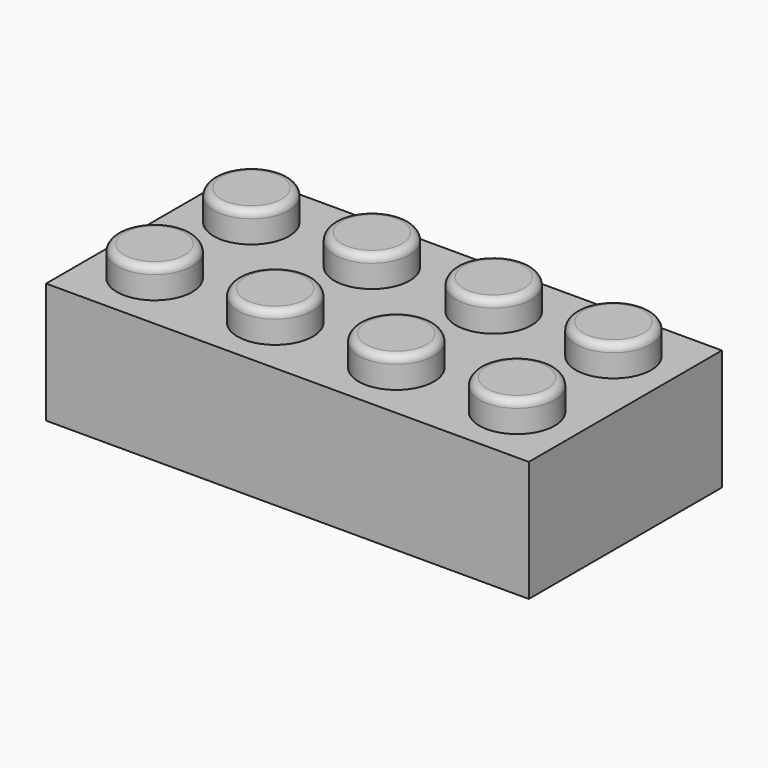
from build123d import *

# Parameters (mm, degrees)
F0_W     = 32
F0_H     = 16
F1_DEPTH = 8
F3_R     = 2.5
F4_DEPTH = 2
F5_R     = 0.5
F6_T     = -1.5


with BuildPart() as f1:
    # F0 (on Top) → F1 (new body)
    with BuildSketch(Plane.XY):
        with Locations((0.1651896084, 1.5592468474)):
            Rectangle(F0_W, F0_H)
    extrude(amount=F1_DEPTH)

    # F3 (on offset) → F4 (join)
    with BuildSketch(Plane.XY.offset(8)):
        with Locations((-11.8343988433, 5.5677001365)):
            Circle(F3_R)
        with Locations((-3.8403593935, 5.5677001365)):
            Circle(F3_R)
        with Locations((4.2093880475, 5.595554132)):
            Circle(F3_R)
        with Locations((12.1808182448, 5.5543361232)):
            Circle(F3_R)
        with Locations((4.2093880475, -2.4770604373)):
            Circle(F3_R)
        with Locations((-3.8403593935, -2.4492064417)):
            Circle(F3_R)
        with Locations((-11.8343988433, -2.4492064417)):
            Circle(F3_R)
        with Locations((12.1808182448, -2.4358424285)):
            Circle(F3_R)
    extrude(amount=F4_DEPTH)

    # F5
    f5_edges = [f1.edges().sort_by_distance(p)[0] for p in [
        (9.680818, 5.554336, 10),
        (1.709388, 5.595554, 10),
        (-6.340359, 5.5677, 10),
        (-14.334399, 5.5677, 10),
        (-14.334399, -2.449206, 10),
        (-6.340359, -2.449206, 10),
        (1.709388, -2.47706, 10),
        (9.680818, -2.435842, 10),
    ]]
    fillet(f5_edges, radius=F5_R)

    # F6
    f6_openings = [f1.faces().sort_by_distance(p)[0] for p in [
        (0.16519, 1.559247, 0),
    ]]
    offset(amount=F6_T, openings=f6_openings, kind=Kind.INTERSECTION)


solid = f1.part
